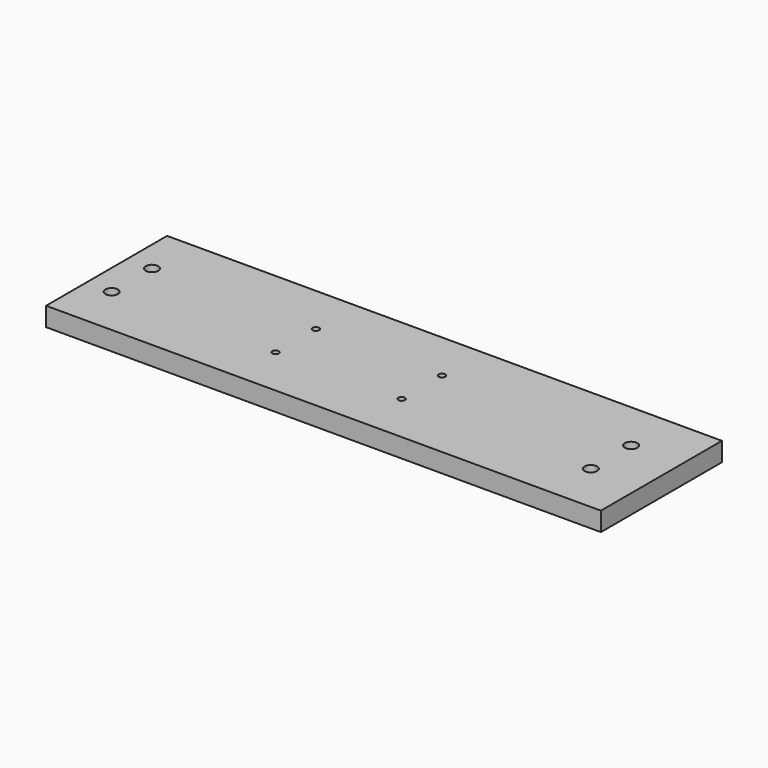
from build123d import *

# Parameters (mm, degrees)
F0_W     = 279.4
F0_H     = 9.525
F1_DEPTH = 38.1
F2_R     = 3.175
F3_DEPTH = 254
F4_R     = 1.651
F5_DEPTH = 254


with BuildPart() as f1:
    # F0 (on Front) → F1 (new body, symmetric)
    with BuildSketch(Plane.XZ):
        with Locations((-12.7, 0)):
            Rectangle(F0_W, F0_H)
    extrude(amount=F1_DEPTH, both=True)

    # F2 (on face) → F3 (cut, symmetric)
    with BuildSketch(Plane.XY.offset(4.7625)):
        with Locations((-139.7, 12.7)):
            Circle(F2_R)
        with Locations((-139.7, -12.7)):
            Circle(F2_R)
        with Locations((101.6, 12.7)):
            Circle(F2_R)
        with Locations((101.6, -12.7)):
            Circle(F2_R)
    extrude(amount=F3_DEPTH, both=True, mode=Mode.SUBTRACT)

    # F4 (on face) → F5 (cut, symmetric)
    with BuildSketch(Plane.XY.offset(4.7625)):
        with Locations((-57.15, 12.7)):
            Circle(F4_R)
        with Locations((-57.15, -12.7)):
            Circle(F4_R)
        with Locations((6.35, -12.7)):
            Circle(F4_R)
        with Locations((6.35, 12.7)):
            Circle(F4_R)
    extrude(amount=F5_DEPTH, both=True, mode=Mode.SUBTRACT)


solid = f1.part
